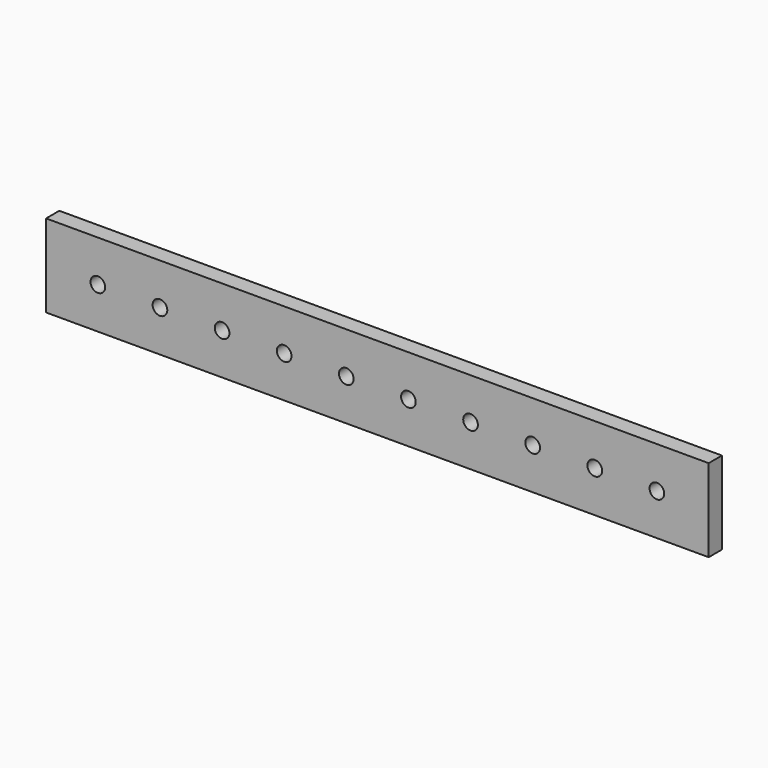
from build123d import *

# Parameters (mm, degrees)
F0_W     = 203.2
F0_H     = 25.4
F0_R     = 2.2479
F1_DEPTH = 5.08


with BuildPart() as f1:
    # F0 (on Front) → F1 (new body)
    with BuildSketch(Plane.XZ):
        with Locations((101.6, 12.7)):
            Rectangle(F0_W, F0_H)
        with Locations((15.875, 12.7)):
            Circle(F0_R, mode=Mode.SUBTRACT)
        with Locations((34.925, 12.7)):
            Circle(F0_R, mode=Mode.SUBTRACT)
        with Locations((53.975, 12.7)):
            Circle(F0_R, mode=Mode.SUBTRACT)
        with Locations((73.025, 12.7)):
            Circle(F0_R, mode=Mode.SUBTRACT)
        with Locations((92.075, 12.7)):
            Circle(F0_R, mode=Mode.SUBTRACT)
        with Locations((111.125, 12.7)):
            Circle(F0_R, mode=Mode.SUBTRACT)
        with Locations((130.175, 12.7)):
            Circle(F0_R, mode=Mode.SUBTRACT)
        with Locations((149.225, 12.7)):
            Circle(F0_R, mode=Mode.SUBTRACT)
        with Locations((168.275, 12.7)):
            Circle(F0_R, mode=Mode.SUBTRACT)
        with Locations((187.325, 12.7)):
            Circle(F0_R, mode=Mode.SUBTRACT)
    extrude(amount=F1_DEPTH)


solid = f1.part
